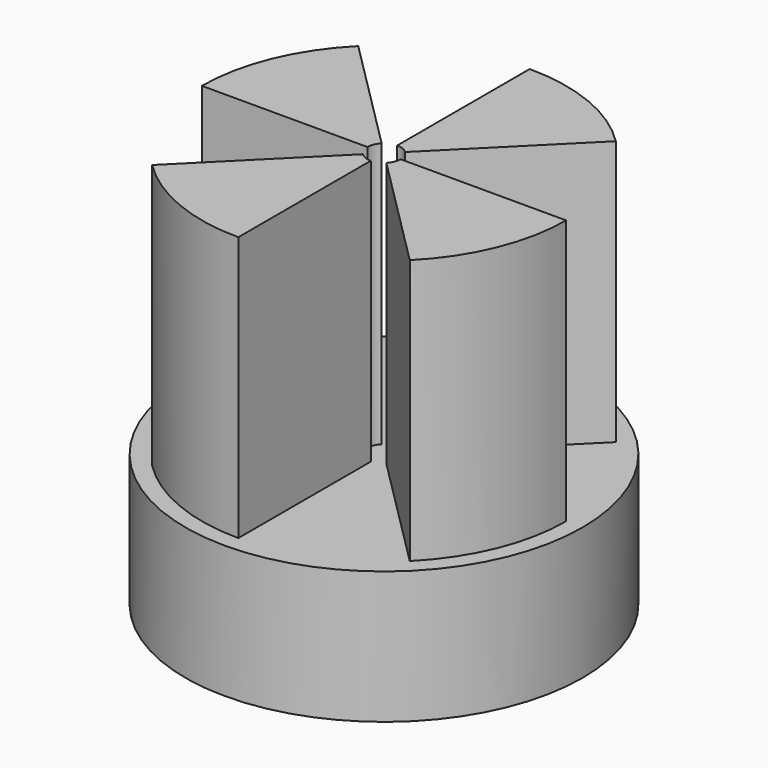
from build123d import *

# Parameters (mm, degrees)
F1_DEPTH = 50.8
F2_R     = 38.1
F3_DEPTH = 25.4


with BuildPart() as f1:
    # F0 (on Top) → F1 (new body)
    with BuildSketch(Plane.XY):
        with BuildLine():
            ThreePointArc((-24.695704, -24.695704), (-13.365219, -32.266493), (0, -34.925))
            Line((0, -34.925), (0, -3.175))
            ThreePointArc((0, -3.175), (-1.21502, -2.933318), (-2.245064, -2.245064))
            Line((-2.245064, -2.245064), (-24.695704, -24.695704))
        make_face()
        with BuildLine():
            Line((-2.245064, 2.245064), (-24.695704, 24.695704))
            ThreePointArc((-24.695704, 24.695704), (-32.266493, 13.365219), (-34.925, 0))
            Line((-34.925, 0), (-3.175, 0))
            ThreePointArc((-3.175, 0), (-2.933318, 1.21502), (-2.245064, 2.245064))
        make_face()
        with BuildLine():
            Line((2.245064, 2.245064), (24.695704, 24.695704))
            ThreePointArc((24.695704, 24.695704), (13.365219, 32.266493), (0, 34.925))
            Line((0, 34.925), (0, 3.175))
            ThreePointArc((0, 3.175), (1.21502, 2.933318), (2.245064, 2.245064))
        make_face()
        with BuildLine():
            ThreePointArc((24.695704, -24.695704), (32.266493, -13.365219), (34.925, 0))
            Line((34.925, 0), (3.175, 0))
            ThreePointArc((3.175, 0), (2.933318, -1.21502), (2.245064, -2.245064))
            Line((2.245064, -2.245064), (24.695704, -24.695704))
        make_face()
    extrude(amount=F1_DEPTH)


with BuildPart() as f3:
    # F2 (on Top) → F3 (new body)
    with BuildSketch(Plane.XY):
        Circle(F2_R)
    extrude(amount=-F3_DEPTH)


solid = Compound([f1.part, f3.part])
